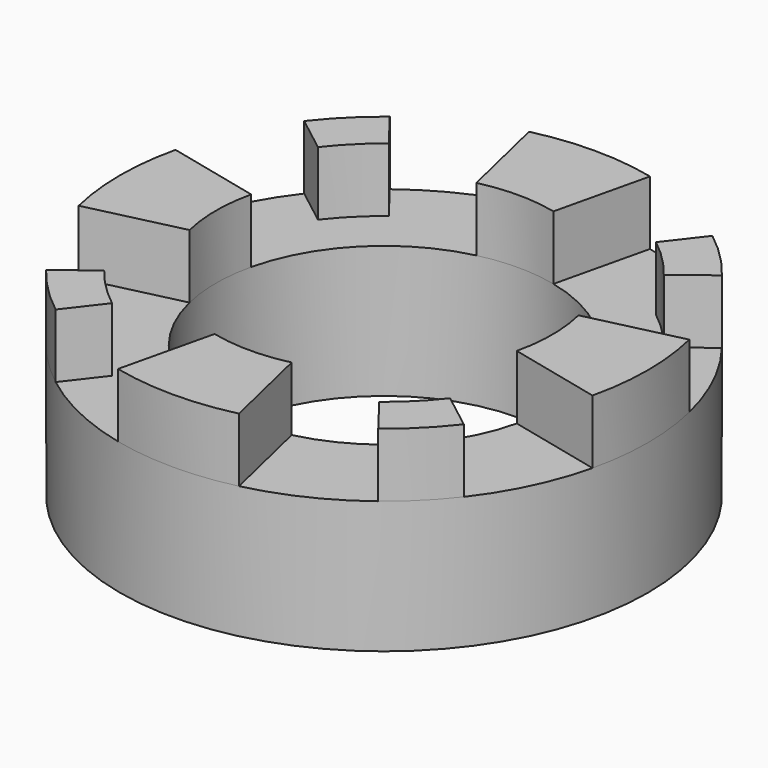
from build123d import *

# Parameters (mm, degrees)
F1_DEPTH = 1.9
F2_DEPTH = 1.9
F3_COUNT = 4
F4_R     = 7.85
F4_R_2   = 5
F6_DEPTH = 3.93


with BuildPart() as f1:
    # F0 (on Top) → F1 (new body)
    with BuildSketch(Plane.XY):
        with BuildLine():
            Line((1.146497, 4.86678), (1.8, 7.640844))
            ThreePointArc((1.8, 7.640844), (0, 7.85), (-1.8, 7.640844))
            Line((-1.8, 7.640844), (-1.146497, 4.86678))
            ThreePointArc((-1.146497, 4.86678), (0, 5), (1.146497, 4.86678))
        make_face()
    extrude(amount=F1_DEPTH)



with BuildPart() as f2:
    # F0 (on Top) → F2 (new body, through all)
    with BuildSketch(Plane.XY):
        with BuildLine():
            ThreePointArc((3.973246, 5.144251), (4.596194, 4.596194), (5.144251, 3.973246))
            Line((5.144251, 3.973246), (6.212672, 4.798459))
            ThreePointArc((6.212672, 4.798459), (5.550788, 5.550788), (4.798459, 6.212672))
            Line((4.798459, 6.212672), (3.973246, 5.144251))
        make_face()
    extrude(amount=F2_DEPTH)


with BuildPart() as f3_1:
    # F3: instance of F1
    add(f1.part.rotate(Axis((0, 0, 0), (0, 0, -1)), 1 * 360 / F3_COUNT))


with BuildPart() as f3_2:
    # F3: instance of F1
    add(f1.part.rotate(Axis((0, 0, 0), (0, 0, -1)), 2 * 360 / F3_COUNT))


with BuildPart() as f3_3:
    # F3: instance of F1
    add(f1.part.rotate(Axis((0, 0, 0), (0, 0, -1)), 3 * 360 / F3_COUNT))


with BuildPart() as f3_4:
    # F3: instance of F2
    add(f2.part.rotate(Axis((0, 0, 0), (0, 0, -1)), 1 * 360 / F3_COUNT))


with BuildPart() as f3_5:
    # F3: instance of F2
    add(f2.part.rotate(Axis((0, 0, 0), (0, 0, -1)), 2 * 360 / F3_COUNT))


with BuildPart() as f3_6:
    # F3: instance of F2
    add(f2.part.rotate(Axis((0, 0, 0), (0, 0, -1)), 3 * 360 / F3_COUNT))


with BuildPart() as f1_1:
    add(f1.part)

    add(f2.part)  # F6 merges F2

    add(f3_1.part)  # F6 merges F3_1

    add(f3_2.part)  # F6 merges F3_2

    add(f3_3.part)  # F6 merges F3_3

    add(f3_4.part)  # F6 merges F3_4

    add(f3_5.part)  # F6 merges F3_5

    add(f3_6.part)  # F6 merges F3_6
    # F4 (on Top) → F6 (join)
    with BuildSketch(Plane.XY):
        Circle(F4_R)
        Circle(F4_R_2, mode=Mode.SUBTRACT)
    extrude(amount=-F6_DEPTH)


solid = f1_1.part
